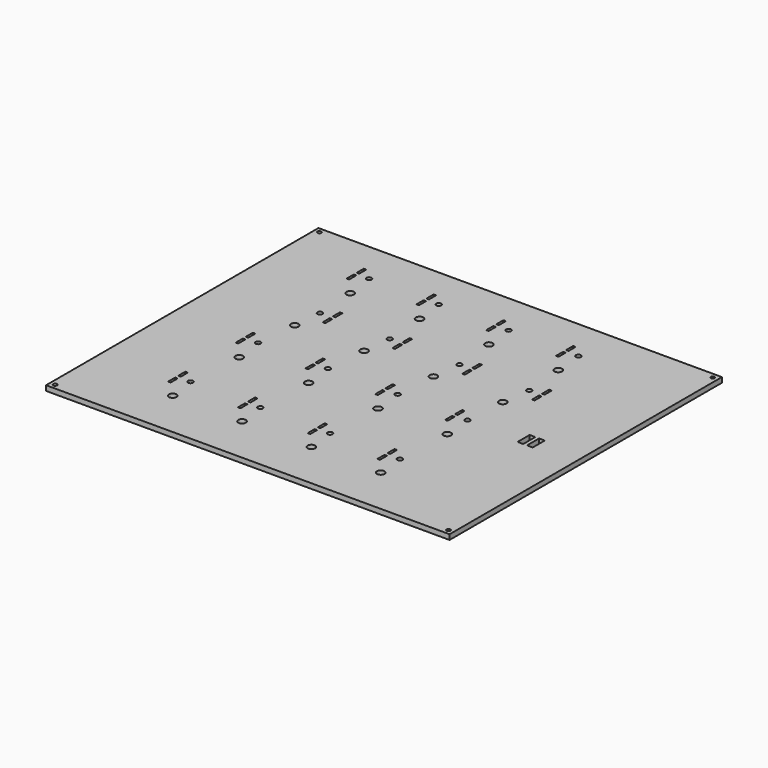
from build123d import *

# Parameters (mm, degrees)
BOX_W                  = 320
BOX_H                  = 270
BOX_DEPTH              = 4
SKETCH_W               = 2
SKETCH_H               = 7
POCKET_DEPTH           = 5
LINEARPATTERN_COUNT    = 4
LINEARPATTERN_PITCH    = 55.333333
SKETCH001_W            = 2
SKETCH001_H            = 7
POCKET001_DEPTH        = 5
LINEARPATTERN001_COUNT = 4
LINEARPATTERN001_PITCH = 55.333333
SKETCH002_W            = 2
SKETCH002_H            = 7
POCKET002_DEPTH        = 5
LINEARPATTERN002_COUNT = 4
LINEARPATTERN002_PITCH = 55.333333
SKETCH003_W            = 2
SKETCH003_H            = 7
POCKET003_DEPTH        = 5
LINEARPATTERN003_COUNT = 4
LINEARPATTERN003_PITCH = 55.333333
SKETCH004_R            = 3
POCKET004_DEPTH        = 5
LINEARPATTERN004_COUNT = 3
LINEARPATTERN004_PITCH = 55
SKETCH005_R            = 3
POCKET005_DEPTH        = 5
SKETCH006_W            = 4.5
SKETCH006_H            = 12
POCKET006_DEPTH        = 5
SKETCH007_R            = 2
POCKET007_DEPTH        = 5
SKETCH008_R            = 1.5
POCKET008_DEPTH        = 5
POCKET009_DEPTH        = 1.8


with BuildPart() as part:
    # Box → Box (new body)
    with BuildSketch(Plane.XY):
        with Locations((160, 135)):
            Rectangle(BOX_W, BOX_H)
    extrude(amount=BOX_DEPTH)

    # Sketch → Pocket (cut)
    with BuildSketch(Plane.XY.offset(4)):
        with Locations((57, 241.5)):
            Rectangle(SKETCH_W, SKETCH_H)
        with Locations((57, 231.5)):
            Rectangle(SKETCH_W, SKETCH_H)
    pocket = extrude(amount=-POCKET_DEPTH, mode=Mode.SUBTRACT)

    # LinearPattern: Pocket ×4
    with Locations(*[(i * LINEARPATTERN_PITCH, 0, 0) for i in range(1, LINEARPATTERN_COUNT)]):
        add(pocket, mode=Mode.SUBTRACT)

    # Sketch001 → Pocket001 (cut)
    with BuildSketch(Plane.XY.offset(4)):
        with Locations((57, 131.5)):
            Rectangle(SKETCH001_W, SKETCH001_H)
        with Locations((57, 121.5)):
            Rectangle(SKETCH001_W, SKETCH001_H)
    pocket001 = extrude(amount=-POCKET001_DEPTH, mode=Mode.SUBTRACT)

    # LinearPattern001: Pocket001 ×4
    with Locations(*[(i * LINEARPATTERN001_PITCH, 0, 0) for i in range(1, LINEARPATTERN001_COUNT)]):
        add(pocket001, mode=Mode.SUBTRACT)

    # Sketch002 → Pocket002 (cut)
    with BuildSketch(Plane.XY.offset(4)):
        with Locations((57, 64.5)):
            Rectangle(SKETCH002_W, SKETCH002_H)
        with Locations((57, 54.5)):
            Rectangle(SKETCH002_W, SKETCH002_H)
    pocket002 = extrude(amount=-POCKET002_DEPTH, mode=Mode.SUBTRACT)

    # LinearPattern002: Pocket002 ×4
    with Locations(*[(i * LINEARPATTERN002_PITCH, 0, 0) for i in range(1, LINEARPATTERN002_COUNT)]):
        add(pocket002, mode=Mode.SUBTRACT)

    # Sketch003 → Pocket003 (cut)
    with BuildSketch(Plane.XY.offset(4)):
        with Locations((82, 186.5)):
            Rectangle(SKETCH003_W, SKETCH003_H)
        with Locations((82, 176.5)):
            Rectangle(SKETCH003_W, SKETCH003_H)
    pocket003 = extrude(amount=-POCKET003_DEPTH, mode=Mode.SUBTRACT)

    # LinearPattern003: Pocket003 ×4
    with Locations(*[(i * LINEARPATTERN003_PITCH, 0, 0) for i in range(1, LINEARPATTERN003_COUNT)]):
        add(pocket003, mode=Mode.SUBTRACT)

    # Sketch004 → Pocket004 (cut)
    with BuildSketch(Plane.XY.offset(4)):
        with Locations((70, 214)):
            Circle(SKETCH004_R)
        with Locations((125, 214)):
            Circle(SKETCH004_R)
        with Locations((180, 214)):
            Circle(SKETCH004_R)
        with Locations((235, 214)):
            Circle(SKETCH004_R)
    pocket004 = extrude(amount=-POCKET004_DEPTH, mode=Mode.SUBTRACT)

    # LinearPattern004: Pocket004 ×3
    with Locations(*[(0, -i * LINEARPATTERN004_PITCH, 0) for i in range(1, LINEARPATTERN004_COUNT)]):
        add(pocket004, mode=Mode.SUBTRACT)

    # Sketch005 → Pocket005 (cut)
    with BuildSketch(Plane.XY.offset(4)):
        with Locations((70, 38)):
            Circle(SKETCH005_R)
        with Locations((125, 38)):
            Circle(SKETCH005_R)
        with Locations((180, 38)):
            Circle(SKETCH005_R)
        with Locations((235, 38)):
            Circle(SKETCH005_R)
    extrude(amount=-POCKET005_DEPTH, mode=Mode.SUBTRACT)

    # Sketch006 → Pocket006 (cut)
    with BuildSketch(Plane.XY.offset(4)):
        with Locations((277.75, 129)):
            Rectangle(SKETCH006_W, SKETCH006_H)
        with Locations((285.25, 129)):
            Rectangle(SKETCH006_W, SKETCH006_H)
    extrude(amount=-POCKET006_DEPTH, mode=Mode.SUBTRACT)

    # Sketch007 → Pocket007 (cut)
    with BuildSketch(Plane.XY.offset(4)):
        with Locations((67, 236.5)):
            Circle(SKETCH007_R)
        with Locations((122.333333, 236.5)):
            Circle(SKETCH007_R)
        with Locations((177.666667, 236.5)):
            Circle(SKETCH007_R)
        with Locations((233, 236.5)):
            Circle(SKETCH007_R)
        with Locations((72, 181.5)):
            Circle(SKETCH007_R)
        with Locations((127.333333, 181.5)):
            Circle(SKETCH007_R)
        with Locations((182.666667, 181.5)):
            Circle(SKETCH007_R)
        with Locations((238, 181.5)):
            Circle(SKETCH007_R)
        with Locations((67, 126.5)):
            Circle(SKETCH007_R)
        with Locations((122.333333, 126.5)):
            Circle(SKETCH007_R)
        with Locations((177.666667, 126.5)):
            Circle(SKETCH007_R)
        with Locations((233, 126.5)):
            Circle(SKETCH007_R)
        with Locations((67, 59.5)):
            Circle(SKETCH007_R)
        with Locations((122.333333, 59.5)):
            Circle(SKETCH007_R)
        with Locations((177.666667, 59.5)):
            Circle(SKETCH007_R)
        with Locations((233, 59.5)):
            Circle(SKETCH007_R)
    extrude(amount=-POCKET007_DEPTH, mode=Mode.SUBTRACT)

    # Sketch008 → Pocket008 (cut)
    with BuildSketch(Plane.XY.offset(4)):
        with Locations((4, 4)):
            Circle(SKETCH008_R)
        with Locations((4, 266)):
            Circle(SKETCH008_R)
        with Locations((316, 266)):
            Circle(SKETCH008_R)
        with Locations((316, 4)):
            Circle(SKETCH008_R)
    extrude(amount=-POCKET008_DEPTH, mode=Mode.SUBTRACT)

    # Sketch009 → Pocket009 (cut)
    with BuildSketch(Plane(origin=(0, 0, 0), x_dir=(1, 0, 0), z_dir=(0, 0, -1))):
        Polygon((2.412287, -263.25), (5.587713, -263.25), (7.175426, -266), (5.587713, -268.75), (2.412287, -268.75), (0.824574, -266), align=None)
        Polygon((2.412287, -1.25), (5.587713, -1.25), (7.175426, -4), (5.587713, -6.75), (2.412287, -6.75), (0.824574, -4), align=None)
        Polygon((314.412287, -1.25), (317.587713, -1.25), (319.175426, -4), (317.587713, -6.75), (314.412287, -6.75), (312.824574, -4), align=None)
        Polygon((314.412287, -263.25), (317.587713, -263.25), (319.175426, -266), (317.587699, -268.749992), (314.412272, -268.750008), (312.824574, -266), align=None)
    extrude(amount=-POCKET009_DEPTH, mode=Mode.SUBTRACT)


solid = part.part
